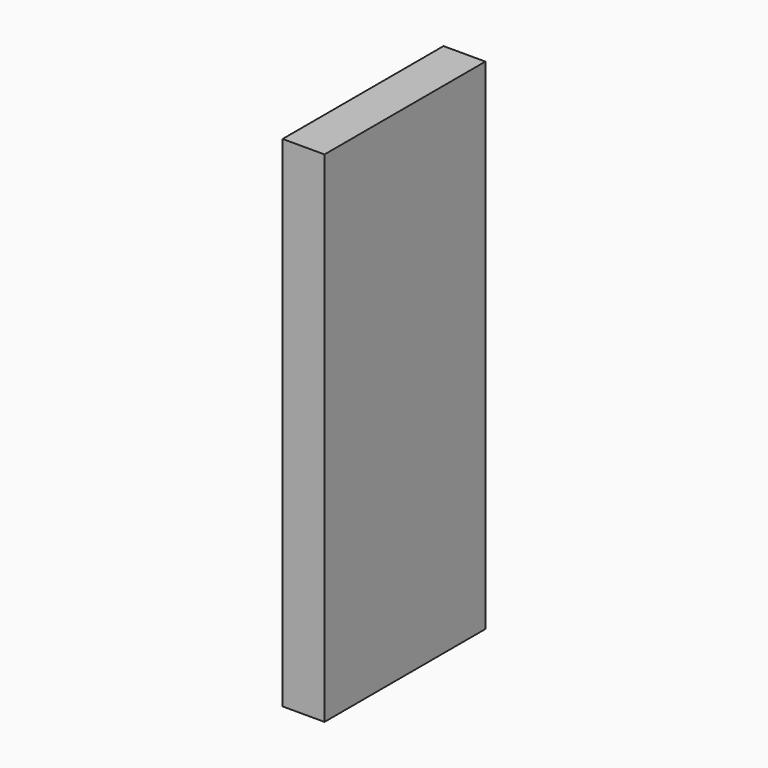
from build123d import *

# Parameters (mm, degrees)
F0_W     = 120
F0_H     = 50
F1_DEPTH = 25
F2_DEPTH = 250
F3_DEPTH = 1.9


with BuildPart() as f1:
    # F0 (on Right) → F1 (new body)
    with BuildSketch(Plane.YZ):
        Rectangle(F0_W, F0_H)
    extrude(amount=F1_DEPTH)

    # F2 (add): a face of the model
    f2_faces = [f1.faces().sort_by_distance(p)[0] for p in [
        (12.5, 0, 25),
    ]]
    extrude(f2_faces, amount=F2_DEPTH)

    # F3 (cut): a face of the model
    f3_faces = [f1.faces().sort_by_distance(p)[0] for p in [
        (12.5, 0, -25),
    ]]
    extrude(f3_faces, amount=-F3_DEPTH, mode=Mode.SUBTRACT)


solid = f1.part
